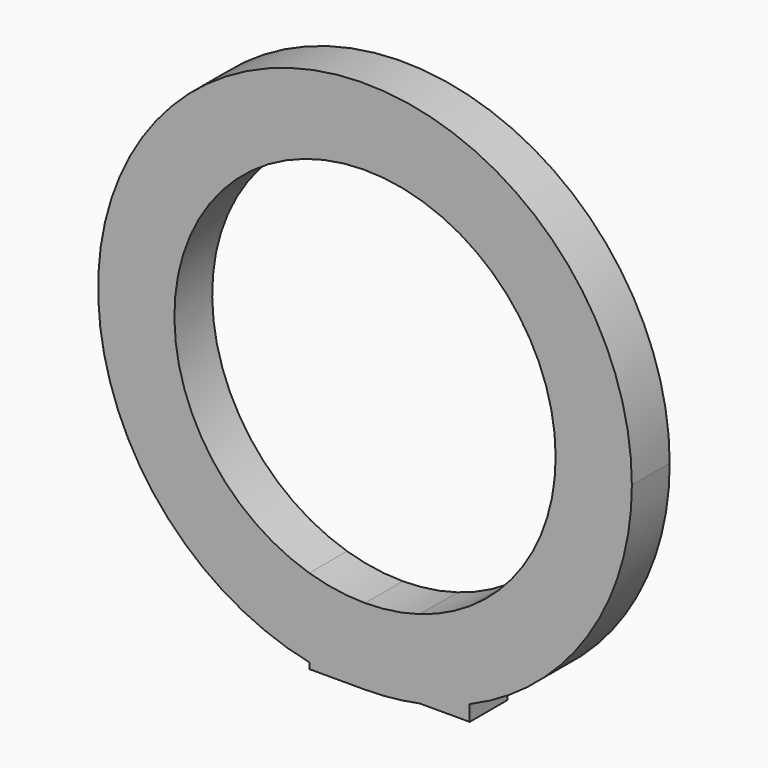
from build123d import *

# Parameters (mm, degrees)
F1_DEPTH = 7.874


with BuildPart() as f1:
    # F0 (on Front) → F1 (new body)
    with BuildSketch(Plane.XZ):
        with BuildLine():
            Line((0, -31.75), (0, -44.45))
            ThreePointArc((0, -44.45), (4.5767784208, -44.2137489848), (9.1049058384, -43.5075072795))
            Line((9.1049058384, -43.5075072795), (9.1049058384, -30.4164953549))
            ThreePointArc((9.1049058384, -30.4164953549), (4.6010201305, -31.4148549855), (0, -31.75))
        make_face()
        with BuildLine():
            Line((-9.2808791619, -44.45), (0, -44.45))
            ThreePointArc((0, -44.45), (-4.6662220286, -44.2043987854), (-9.2808791619, -43.4703092004))
            Line((-9.2808791619, -43.4703092004), (-9.2808791619, -44.45))
        make_face()
        with BuildLine():
            ThreePointArc((-9.2808791619, -43.4703092004), (-4.6662220286, -44.2043987854), (0, -44.45))
            Line((0, -44.45), (0, -31.75))
            ThreePointArc((0, -31.75), (-4.6919546995, -31.4014022155), (-9.2808791619, -30.3632636912))
            Line((-9.2808791619, -30.3632636912), (-9.2808791619, -43.4703092004))
        make_face()
        with BuildLine():
            Line((9.1049058384, -30.4164953549), (9.1049058384, -43.5075072795))
            ThreePointArc((9.1049058384, -43.5075072795), (13.3349916889, -42.4026001167), (17.4360712343, -40.8874787669))
            Line((17.4360712343, -40.8874787669), (17.4360712343, -26.5338636447))
            ThreePointArc((17.4360712343, -26.5338636447), (13.4117326711, -28.7782544078), (9.1049058384, -30.4164953549))
        make_face()
        with BuildLine():
            ThreePointArc((17.4360712343, -40.8874787669), (13.3349916889, -42.4026001167), (9.1049058384, -43.5075072795))
            Line((9.1049058384, -43.5075072795), (17.4360712343, -43.5075072795))
            Line((17.4360712343, -43.5075072795), (17.4360712343, -40.8874787669))
        make_face()
        with BuildLine():
            ThreePointArc((44.45, 0), (-27.9577129005, 34.5567473784), (-9.2808791619, -43.4703092004))
            Line((-9.2808791619, -43.4703092004), (-9.2808791619, -30.3632636912))
            ThreePointArc((-9.2808791619, -30.3632636912), (-18.8864314603, 25.5218574304), (31.75, 0))
            ThreePointArc((31.75, 0), (27.9433154948, -15.0742701036), (17.4360712343, -26.5338636447))
            Line((17.4360712343, -26.5338636447), (17.4360712343, -40.8874787669))
            ThreePointArc((17.4360712343, -40.8874787669), (37.0866274172, -24.5027461077), (44.45, 0))
        make_face()
    extrude(amount=F1_DEPTH)


solid = f1.part
